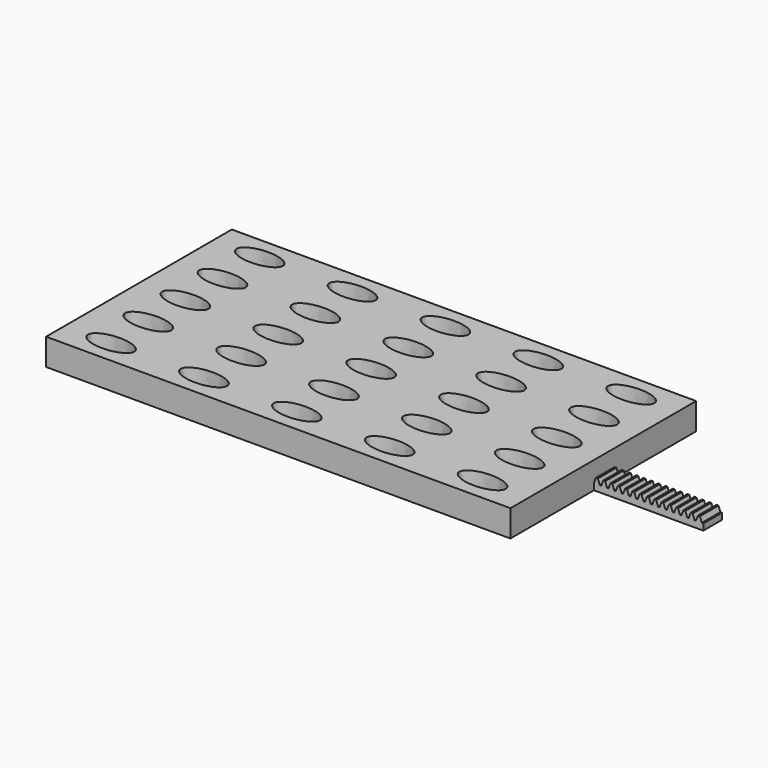
from build123d import *

# Parameters (mm, degrees)
SKETCH_W     = 200
SKETCH_H     = 100
PAD_DEPTH    = 11.5
POCKET_DEPTH = 16
PAD001_DEPTH = 5


with BuildPart() as part:
    # Sketch → Pad (new body)
    with BuildSketch(Plane.XY):
        Rectangle(SKETCH_W, SKETCH_H)
    extrude(amount=-PAD_DEPTH)

    # Sketch001 → Pocket (cut)
    with BuildSketch(Plane.XY):
        with BuildLine():
            add(Edge.make_bspline(
                [(-70, 40), (-70, 48.227241), (-85, 44.113621), (-100, 40), (-85, 35.886379), (-70, 31.772759), (-70, 40)],
                knots=[0, 0, 0, 2.094395, 2.094395, 4.18879, 4.18879, 6.283185, 6.283185, 6.283185], degree=2, weights=[1, 0.5, 1, 0.5, 1, 0.5, 1]))
        make_face()
        with BuildLine():
            add(Edge.make_bspline(
                [(-30, 40), (-30, 48.227241), (-45, 44.113621), (-60, 40), (-45, 35.886379), (-30, 31.772759), (-30, 40)],
                knots=[0, 0, 0, 2.094395, 2.094395, 4.18879, 4.18879, 6.283185, 6.283185, 6.283185], degree=2, weights=[1, 0.5, 1, 0.5, 1, 0.5, 1]))
        make_face()
        with BuildLine():
            add(Edge.make_bspline(
                [(10, 40), (10, 48.227241), (-5, 44.113621), (-20, 40), (-5, 35.886379), (10, 31.772759), (10, 40)],
                knots=[0, 0, 0, 2.094395, 2.094395, 4.18879, 4.18879, 6.283185, 6.283185, 6.283185], degree=2, weights=[1, 0.5, 1, 0.5, 1, 0.5, 1]))
        make_face()
        with BuildLine():
            add(Edge.make_bspline(
                [(50, 40), (50, 48.227241), (35, 44.113621), (20, 40), (35, 35.886379), (50, 31.772759), (50, 40)],
                knots=[0, 0, 0, 2.094395, 2.094395, 4.18879, 4.18879, 6.283185, 6.283185, 6.283185], degree=2, weights=[1, 0.5, 1, 0.5, 1, 0.5, 1]))
        make_face()
        with BuildLine():
            add(Edge.make_bspline(
                [(90, 40), (90, 48.227241), (75, 44.113621), (60, 40), (75, 35.886379), (90, 31.772759), (90, 40)],
                knots=[0, 0, 0, 2.094395, 2.094395, 4.18879, 4.18879, 6.283185, 6.283185, 6.283185], degree=2, weights=[1, 0.5, 1, 0.5, 1, 0.5, 1]))
        make_face()
        with BuildLine():
            add(Edge.make_bspline(
                [(-70, 20), (-70, 28.227241), (-85, 24.113621), (-100, 20), (-85, 15.886379), (-70, 11.772759), (-70, 20)],
                knots=[0, 0, 0, 2.094395, 2.094395, 4.18879, 4.18879, 6.283185, 6.283185, 6.283185], degree=2, weights=[1, 0.5, 1, 0.5, 1, 0.5, 1]))
        make_face()
        with BuildLine():
            add(Edge.make_bspline(
                [(-30, 20), (-30, 28.227241), (-45, 24.113621), (-60, 20), (-45, 15.886379), (-30, 11.772759), (-30, 20)],
                knots=[0, 0, 0, 2.094395, 2.094395, 4.18879, 4.18879, 6.283185, 6.283185, 6.283185], degree=2, weights=[1, 0.5, 1, 0.5, 1, 0.5, 1]))
        make_face()
        with BuildLine():
            add(Edge.make_bspline(
                [(10, 20), (10, 28.227241), (-5, 24.113621), (-20, 20), (-5, 15.886379), (10, 11.772759), (10, 20)],
                knots=[0, 0, 0, 2.094395, 2.094395, 4.18879, 4.18879, 6.283185, 6.283185, 6.283185], degree=2, weights=[1, 0.5, 1, 0.5, 1, 0.5, 1]))
        make_face()
        with BuildLine():
            add(Edge.make_bspline(
                [(50, 20), (50, 28.227241), (35, 24.113621), (20, 20), (35, 15.886379), (50, 11.772759), (50, 20)],
                knots=[0, 0, 0, 2.094395, 2.094395, 4.18879, 4.18879, 6.283185, 6.283185, 6.283185], degree=2, weights=[1, 0.5, 1, 0.5, 1, 0.5, 1]))
        make_face()
        with BuildLine():
            add(Edge.make_bspline(
                [(90, 20), (90, 28.227241), (75, 24.113621), (60, 20), (75, 15.886379), (90, 11.772759), (90, 20)],
                knots=[0, 0, 0, 2.094395, 2.094395, 4.18879, 4.18879, 6.283185, 6.283185, 6.283185], degree=2, weights=[1, 0.5, 1, 0.5, 1, 0.5, 1]))
        make_face()
        with BuildLine():
            add(Edge.make_bspline(
                [(-70, 0), (-70, 8.227241), (-85, 4.113621), (-100, 0), (-85, -4.113621), (-70, -8.227241), (-70, 0)],
                knots=[0, 0, 0, 2.094395, 2.094395, 4.18879, 4.18879, 6.283185, 6.283185, 6.283185], degree=2, weights=[1, 0.5, 1, 0.5, 1, 0.5, 1]))
        make_face()
        with BuildLine():
            add(Edge.make_bspline(
                [(-30, 0), (-30, 8.227241), (-45, 4.113621), (-60, 0), (-45, -4.113621), (-30, -8.227241), (-30, 0)],
                knots=[0, 0, 0, 2.094395, 2.094395, 4.18879, 4.18879, 6.283185, 6.283185, 6.283185], degree=2, weights=[1, 0.5, 1, 0.5, 1, 0.5, 1]))
        make_face()
        with BuildLine():
            add(Edge.make_bspline(
                [(10, 0), (10, 8.227241), (-5, 4.113621), (-20, 0), (-5, -4.113621), (10, -8.227241), (10, 0)],
                knots=[0, 0, 0, 2.094395, 2.094395, 4.18879, 4.18879, 6.283185, 6.283185, 6.283185], degree=2, weights=[1, 0.5, 1, 0.5, 1, 0.5, 1]))
        make_face()
        with BuildLine():
            add(Edge.make_bspline(
                [(50, 0), (50, 8.227241), (35, 4.113621), (20, 0), (35, -4.113621), (50, -8.227241), (50, 0)],
                knots=[0, 0, 0, 2.094395, 2.094395, 4.18879, 4.18879, 6.283185, 6.283185, 6.283185], degree=2, weights=[1, 0.5, 1, 0.5, 1, 0.5, 1]))
        make_face()
        with BuildLine():
            add(Edge.make_bspline(
                [(90, 0), (90, 8.227241), (75, 4.113621), (60, 0), (75, -4.113621), (90, -8.227241), (90, 0)],
                knots=[0, 0, 0, 2.094395, 2.094395, 4.18879, 4.18879, 6.283185, 6.283185, 6.283185], degree=2, weights=[1, 0.5, 1, 0.5, 1, 0.5, 1]))
        make_face()
        with BuildLine():
            add(Edge.make_bspline(
                [(-70, -20), (-70, -11.772759), (-85, -15.886379), (-100, -20), (-85, -24.113621), (-70, -28.227241), (-70, -20)],
                knots=[0, 0, 0, 2.094395, 2.094395, 4.18879, 4.18879, 6.283185, 6.283185, 6.283185], degree=2, weights=[1, 0.5, 1, 0.5, 1, 0.5, 1]))
        make_face()
        with BuildLine():
            add(Edge.make_bspline(
                [(-30, -20), (-30, -11.772759), (-45, -15.886379), (-60, -20), (-45, -24.113621), (-30, -28.227241), (-30, -20)],
                knots=[0, 0, 0, 2.094395, 2.094395, 4.18879, 4.18879, 6.283185, 6.283185, 6.283185], degree=2, weights=[1, 0.5, 1, 0.5, 1, 0.5, 1]))
        make_face()
        with BuildLine():
            add(Edge.make_bspline(
                [(10, -20), (10, -11.772759), (-5, -15.886379), (-20, -20), (-5, -24.113621), (10, -28.227241), (10, -20)],
                knots=[0, 0, 0, 2.094395, 2.094395, 4.18879, 4.18879, 6.283185, 6.283185, 6.283185], degree=2, weights=[1, 0.5, 1, 0.5, 1, 0.5, 1]))
        make_face()
        with BuildLine():
            add(Edge.make_bspline(
                [(50, -20), (50, -11.772759), (35, -15.886379), (20, -20), (35, -24.113621), (50, -28.227241), (50, -20)],
                knots=[0, 0, 0, 2.094395, 2.094395, 4.18879, 4.18879, 6.283185, 6.283185, 6.283185], degree=2, weights=[1, 0.5, 1, 0.5, 1, 0.5, 1]))
        make_face()
        with BuildLine():
            add(Edge.make_bspline(
                [(90, -20), (90, -11.772759), (75, -15.886379), (60, -20), (75, -24.113621), (90, -28.227241), (90, -20)],
                knots=[0, 0, 0, 2.094395, 2.094395, 4.18879, 4.18879, 6.283185, 6.283185, 6.283185], degree=2, weights=[1, 0.5, 1, 0.5, 1, 0.5, 1]))
        make_face()
        with BuildLine():
            add(Edge.make_bspline(
                [(-70, -40), (-70, -31.772759), (-85, -35.886379), (-100, -40), (-85, -44.113621), (-70, -48.227241), (-70, -40)],
                knots=[0, 0, 0, 2.094395, 2.094395, 4.18879, 4.18879, 6.283185, 6.283185, 6.283185], degree=2, weights=[1, 0.5, 1, 0.5, 1, 0.5, 1]))
        make_face()
        with BuildLine():
            add(Edge.make_bspline(
                [(-30, -40), (-30, -31.772759), (-45, -35.886379), (-60, -40), (-45, -44.113621), (-30, -48.227241), (-30, -40)],
                knots=[0, 0, 0, 2.094395, 2.094395, 4.18879, 4.18879, 6.283185, 6.283185, 6.283185], degree=2, weights=[1, 0.5, 1, 0.5, 1, 0.5, 1]))
        make_face()
        with BuildLine():
            add(Edge.make_bspline(
                [(10, -40), (10, -31.772759), (-5, -35.886379), (-20, -40), (-5, -44.113621), (10, -48.227241), (10, -40)],
                knots=[0, 0, 0, 2.094395, 2.094395, 4.18879, 4.18879, 6.283185, 6.283185, 6.283185], degree=2, weights=[1, 0.5, 1, 0.5, 1, 0.5, 1]))
        make_face()
        with BuildLine():
            add(Edge.make_bspline(
                [(50, -40), (50, -31.772759), (35, -35.886379), (20, -40), (35, -44.113621), (50, -48.227241), (50, -40)],
                knots=[0, 0, 0, 2.094395, 2.094395, 4.18879, 4.18879, 6.283185, 6.283185, 6.283185], degree=2, weights=[1, 0.5, 1, 0.5, 1, 0.5, 1]))
        make_face()
        with BuildLine():
            add(Edge.make_bspline(
                [(90, -40), (90, -31.772759), (75, -35.886379), (60, -40), (75, -44.113621), (90, -48.227241), (90, -40)],
                knots=[0, 0, 0, 2.094395, 2.094395, 4.18879, 4.18879, 6.283185, 6.283185, 6.283185], degree=2, weights=[1, 0.5, 1, 0.5, 1, 0.5, 1]))
        make_face()
    extrude(amount=-POCKET_DEPTH, mode=Mode.SUBTRACT)

    # Sketch002 → Pad001 (join, symmetric)
    with BuildSketch(Plane.XZ):
        Polygon((100, -11.5), (147.1, -11.5), (147.1, -8.75), (146.439926, -8.75), (145.620993, -6.5), (144.778933, -6.5), (143.96, -8.75), (143.299926, -8.75), (142.480993, -6.5), (141.638933, -6.5), (140.82, -8.75), (140.159926, -8.75), (139.340993, -6.5), (138.498933, -6.5), (137.68, -8.75), (137.019926, -8.75), (136.200993, -6.5), (135.358933, -6.5), (134.54, -8.75), (133.879926, -8.75), (133.060993, -6.5), (132.218933, -6.5), (131.4, -8.75), (130.739926, -8.75), (129.920993, -6.5), (129.078933, -6.5), (128.26, -8.75), (127.599926, -8.75), (126.780993, -6.5), (125.938933, -6.5), (125.12, -8.75), (124.459926, -8.75), (123.640993, -6.5), (122.798933, -6.5), (121.98, -8.75), (121.319926, -8.75), (120.500993, -6.5), (119.658933, -6.5), (118.84, -8.75), (118.179926, -8.75), (117.360993, -6.5), (116.518933, -6.5), (115.7, -8.75), (115.039926, -8.75), (114.220993, -6.5), (113.378933, -6.5), (112.56, -8.75), (111.899926, -8.75), (111.080993, -6.5), (110.238933, -6.5), (109.42, -8.75), (108.759926, -8.75), (107.940993, -6.5), (107.098933, -6.5), (106.28, -8.75), (105.619926, -8.75), (104.800993, -6.5), (103.958933, -6.5), (103.14, -8.75), (102.479926, -8.75), (101.660993, -6.5), (100.818933, -6.5), (100, -8.75), align=None)
    extrude(amount=PAD001_DEPTH, both=True)


solid = part.part
